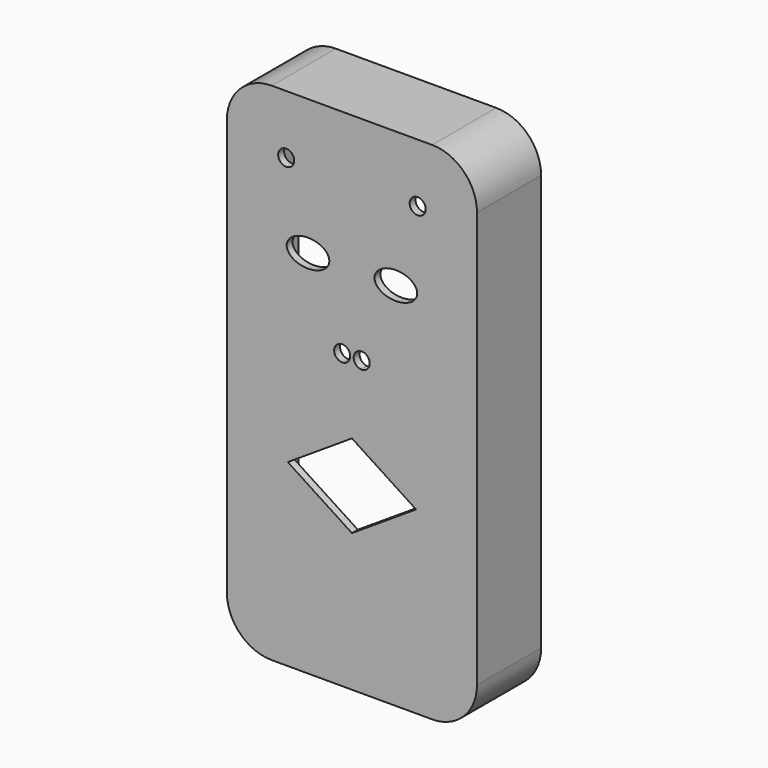
from build123d import *

# Parameters (mm, degrees)
F0_W     = 78
F0_H     = 157.7
F0_W_2   = 73.4
F0_H_2   = 153.1
F0_R     = 2
F0_R_2   = 2.5
F1_DEPTH = 2.3
F2_DEPTH = 9
F3_DEPTH = 7.5
F4_DEPTH = 25
F5_R     = 12
F6_R     = 14


with BuildPart() as f1:
    # F0 (on Front) → F1 (new body)
    with BuildSketch(Plane.XZ):
        Rectangle(F0_W, F0_H)
        Rectangle(F0_W_2, F0_H_2, mode=Mode.SUBTRACT)
        Rectangle(F0_W_2, F0_H_2)
        with Locations((-31.5, -22.85)):
            Circle(F0_R, mode=Mode.SUBTRACT)
        Polygon((-20, -22.85), (0, -9.85), (20, -22.85), (0, -35.85), align=None, mode=Mode.SUBTRACT)
        with Locations((31.5, -22.85)):
            Circle(F0_R, mode=Mode.SUBTRACT)
        with Locations((-30.7, 36.55)):
            Circle(F0_R, mode=Mode.SUBTRACT)
        with BuildLine():
            add(Edge.make_bspline(
                [(-20.35, 36.55), (-20.35, 29.1887840678), (-10.375, 32.8693920339), (-0.4, 36.55), (-10.375, 40.2306079661), (-20.35, 43.9112159322), (-20.35, 36.55)],
                knots=[0, 0, 0, 2.0943951024, 2.0943951024, 4.1887902048, 4.1887902048, 6.2831853072, 6.2831853072, 6.2831853072], degree=2, weights=[1, 0.5, 1, 0.5, 1, 0.5, 1]))
        make_face(mode=Mode.SUBTRACT)
        with Locations((-20.5, 60.55)):
            Circle(F0_R_2, mode=Mode.SUBTRACT)
        with BuildLine():
            ThreePointArc((2.8259154066, 10.0287804232), (1.4142570551, 10.119681178), (0, 10.15))
            ThreePointArc((0, 10.15), (-1.4142571139, 10.1196811755), (-2.825915524, 10.0287804131))
            ThreePointArc((-2.825915524, 10.0287804131), (-5.6846492436, 9.656687973), (-8.5, 9.036517527))
            Line((-8.5, 9.036517527), (0, 26.15))
            Line((0, 26.15), (8.5, 9.036517527))
            ThreePointArc((8.5, 9.036517527), (5.6846491856, 9.6566879832), (2.8259154066, 10.0287804232))
        make_face(mode=Mode.SUBTRACT)
        with BuildLine():
            add(Edge.make_bspline(
                [(20.35, 36.55), (20.35, 43.9112159322), (10.375, 40.2306079661), (0.4, 36.55), (10.375, 32.8693920339), (20.35, 29.1887840678), (20.35, 36.55)],
                knots=[0, 0, 0, 2.0943951024, 2.0943951024, 4.1887902048, 4.1887902048, 6.2831853072, 6.2831853072, 6.2831853072], degree=2, weights=[1, 0.5, 1, 0.5, 1, 0.5, 1]))
        make_face(mode=Mode.SUBTRACT)
        with Locations((30.7, 36.55)):
            Circle(F0_R, mode=Mode.SUBTRACT)
        with Locations((0, 72.05)):
            Circle(F0_R, mode=Mode.SUBTRACT)
        with Locations((20.5, 60.55)):
            Circle(F0_R_2, mode=Mode.SUBTRACT)
        Polygon((20, -22.85), (0, -9.85), (-20, -22.85), (0, -35.85), align=None)
        with BuildLine():
            ThreePointArc((-2.825915524, 10.0287804131), (-1.4142571139, 10.1196811755), (0, 10.15))
            ThreePointArc((0, 10.15), (1.4142570551, 10.119681178), (2.8259154066, 10.0287804232))
            ThreePointArc((2.8259154066, 10.0287804232), (5.6846491856, 9.6566879832), (8.5, 9.036517527))
            Line((8.5, 9.036517527), (0, 26.15))
            Line((0, 26.15), (-8.5, 9.036517527))
            ThreePointArc((-8.5, 9.036517527), (-5.6846492436, 9.656687973), (-2.825915524, 10.0287804131))
        make_face()
        with BuildLine():
            ThreePointArc((-0.54, 12.5195971139), (-1.1980972895, 10.8292141972), (-2.825915524, 10.0287804131))
            ThreePointArc((-2.825915524, 10.0287804131), (-4.8819027105, 14.2099800306), (-0.54, 12.5195971139))
        make_face(mode=Mode.SUBTRACT)
        with BuildLine():
            ThreePointArc((5.54, 12.5195971139), (4.7303828733, 10.6776943636), (2.8259154066, 10.0287804232))
            ThreePointArc((2.8259154066, 10.0287804232), (1.3496171267, 14.3614998642), (5.54, 12.5195971139))
        make_face(mode=Mode.SUBTRACT)
        with BuildLine():
            add(Edge.make_bspline(
                [(-20.35, 36.55), (-20.35, 29.1887840678), (-10.375, 32.8693920339), (-0.4, 36.55), (-10.375, 40.2306079661), (-20.35, 43.9112159322), (-20.35, 36.55)],
                knots=[0, 0, 0, 2.0943951024, 2.0943951024, 4.1887902048, 4.1887902048, 6.2831853072, 6.2831853072, 6.2831853072], degree=2, weights=[1, 0.5, 1, 0.5, 1, 0.5, 1]))
        make_face()
        with BuildLine():
            add(Edge.make_bspline(
                [(20.35, 36.55), (20.35, 43.9112159322), (10.375, 40.2306079661), (0.4, 36.55), (10.375, 32.8693920339), (20.35, 29.1887840678), (20.35, 36.55)],
                knots=[0, 0, 0, 2.0943951024, 2.0943951024, 4.1887902048, 4.1887902048, 6.2831853072, 6.2831853072, 6.2831853072], degree=2, weights=[1, 0.5, 1, 0.5, 1, 0.5, 1]))
        make_face()
        with Locations((-20.5, 60.55)):
            Circle(F0_R_2)
        with Locations((20.5, 60.55)):
            Circle(F0_R_2)
        with BuildLine():
            ThreePointArc((-0.54, 12.5195971139), (-4.8819027105, 14.2099800306), (-2.825915524, 10.0287804131))
            ThreePointArc((-2.825915524, 10.0287804131), (-1.1980972895, 10.8292141972), (-0.54, 12.5195971139))
        make_face()
        with BuildLine():
            ThreePointArc((5.54, 12.5195971139), (1.3496171267, 14.3614998642), (2.8259154066, 10.0287804232))
            ThreePointArc((2.8259154066, 10.0287804232), (4.7303828733, 10.6776943636), (5.54, 12.5195971139))
        make_face()
        with Locations((0, 72.05)):
            Circle(F0_R)
        with Locations((30.7, 36.55)):
            Circle(F0_R)
        with Locations((-30.7, 36.55)):
            Circle(F0_R)
        with Locations((-31.5, -22.85)):
            Circle(F0_R)
        with Locations((31.5, -22.85)):
            Circle(F0_R)
    extrude(amount=-F1_DEPTH)

    # F0 (on Front) → F2 (join)
    with BuildSketch(Plane.XZ):
        with Locations((-31.5, -22.85)):
            Circle(F0_R)
        with Locations((31.5, -22.85)):
            Circle(F0_R)
        with Locations((-30.7, 36.55)):
            Circle(F0_R)
        with Locations((30.7, 36.55)):
            Circle(F0_R)
        with Locations((0, 72.05)):
            Circle(F0_R)
    extrude(amount=-F2_DEPTH)

    # F0 (on Front) → F3 (cut, symmetric)
    with BuildSketch(Plane.XZ):
        with BuildLine():
            ThreePointArc((-0.54, 12.5195971139), (-4.8819027105, 14.2099800306), (-2.825915524, 10.0287804131))
            ThreePointArc((-2.825915524, 10.0287804131), (-1.1980972895, 10.8292141972), (-0.54, 12.5195971139))
        make_face()
        with BuildLine():
            ThreePointArc((5.54, 12.5195971139), (1.3496171267, 14.3614998642), (2.8259154066, 10.0287804232))
            ThreePointArc((2.8259154066, 10.0287804232), (4.7303828733, 10.6776943636), (5.54, 12.5195971139))
        make_face()
        with Locations((-20.5, 60.55)):
            Circle(F0_R_2)
        with Locations((20.5, 60.55)):
            Circle(F0_R_2)
        with BuildLine():
            add(Edge.make_bspline(
                [(-20.35, 36.55), (-20.35, 29.1887840678), (-10.375, 32.8693920339), (-0.4, 36.55), (-10.375, 40.2306079661), (-20.35, 43.9112159322), (-20.35, 36.55)],
                knots=[0, 0, 0, 2.0943951024, 2.0943951024, 4.1887902048, 4.1887902048, 6.2831853072, 6.2831853072, 6.2831853072], degree=2, weights=[1, 0.5, 1, 0.5, 1, 0.5, 1]))
        make_face()
        with BuildLine():
            add(Edge.make_bspline(
                [(20.35, 36.55), (20.35, 43.9112159322), (10.375, 40.2306079661), (0.4, 36.55), (10.375, 32.8693920339), (20.35, 29.1887840678), (20.35, 36.55)],
                knots=[0, 0, 0, 2.0943951024, 2.0943951024, 4.1887902048, 4.1887902048, 6.2831853072, 6.2831853072, 6.2831853072], degree=2, weights=[1, 0.5, 1, 0.5, 1, 0.5, 1]))
        make_face()
        Polygon((20, -22.85), (0, -9.85), (-20, -22.85), (0, -35.85), align=None)
    extrude(amount=F3_DEPTH, both=True, mode=Mode.SUBTRACT)

    # F0 (on Front) → F4 (join)
    with BuildSketch(Plane.XZ):
        Rectangle(F0_W, F0_H)
        Rectangle(F0_W_2, F0_H_2, mode=Mode.SUBTRACT)
    extrude(amount=-F4_DEPTH)

    # F5
    f5_edges = [f1.edges().sort_by_distance(p)[0] for p in [
        (36.7, 13.65, 76.55),
        (-36.7, 13.65, 76.55),
        (36.7, 13.65, -76.55),
        (-36.7, 13.65, -76.55),
    ]]
    fillet(f5_edges, radius=F5_R)

    # F6
    f6_edges = [f1.edges().sort_by_distance(p)[0] for p in [
        (39, 12.5, -78.85),
        (-39, 12.5, -78.85),
        (-39, 12.5, 78.85),
        (39, 12.5, 78.85),
    ]]
    fillet(f6_edges, radius=F6_R)


solid = f1.part
